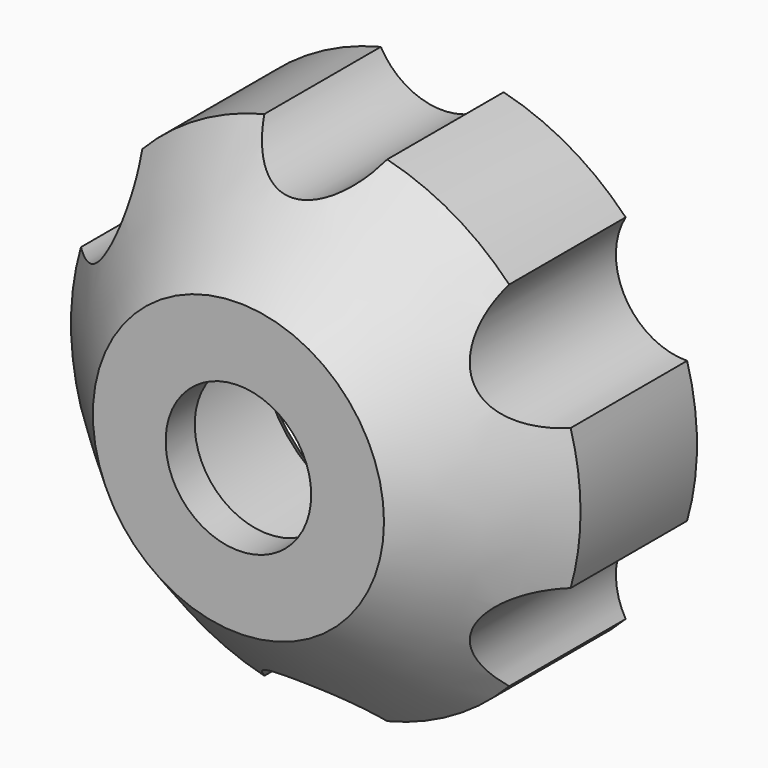
from build123d import *

# Parameters (mm, degrees)
CHAMFER_SIZE       = 2
SKETCH003_R        = 1.939156
POCKET001_DEPTH    = 49.001
POLARPATTERN_COUNT = 6


with BuildPart() as part:
    # Sketch002 → Revolution (revolve)
    with BuildSketch(Plane.XY):
        Polygon((2, 0), (2, 1), (3.4, 1), (3.4, 7), (7, 7), (7, 3), (4, 0), align=None)
    revolve(axis=Axis((0, 0, 0), (0, 1, 0)))

    # Chamfer
    chamfer_edges = [part.edges().sort_by_distance(p)[0] for p in [
        (-3.4, 7, 0),
    ]]
    chamfer(chamfer_edges, length=CHAMFER_SIZE)

    # Sketch003 (on Face4 of Chamfer) → Pocket001 (cut, through all)
    with BuildSketch(Plane(origin=(0, 7, 0), x_dir=(-1, 0, 0), z_dir=(0, 1, 0))):
        with Locations((0, 7.749273)):
            Circle(SKETCH003_R)
    pocket001 = extrude(amount=-POCKET001_DEPTH, mode=Mode.SUBTRACT)

    # PolarPattern: Pocket001 ×6 about axis
    polarpattern_axis = Axis((0, 7, 0), (0, 1, 0))
    for i in range(1, POLARPATTERN_COUNT):
        add(pocket001.rotate(polarpattern_axis, i * 360 / POLARPATTERN_COUNT), mode=Mode.SUBTRACT)


solid = part.part
